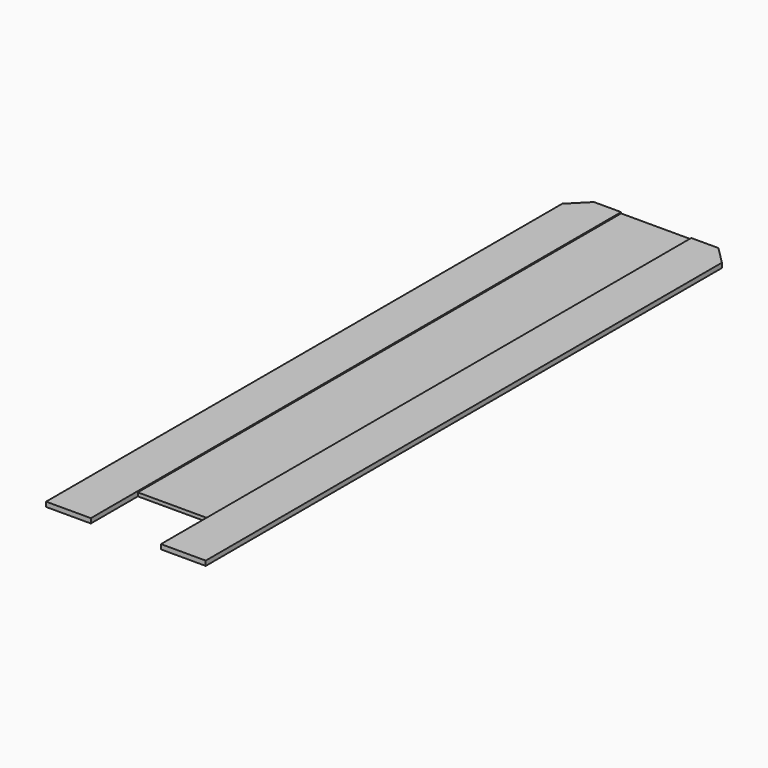
from build123d import *

# Parameters (mm, degrees)
F0_W     = 59.69
F0_H     = 3
F1_DEPTH = 514.2
F3_DEPTH = 564.2
F4_SIZE  = 15


with BuildPart() as f1:
    # F0 (on Front) → F1 (new body)
    with BuildSketch(Plane.XZ):
        with Locations((29.845, 1.5)):
            Rectangle(F0_W, F0_H)
    extrude(amount=F1_DEPTH)

    # F2 (on face) → F3 (join)
    with BuildSketch(Plane(origin=(0, 0, 0), x_dir=(-1, 0, 0), z_dir=(0, 1, 0))):
        Polygon((-97.79, 0), (-59.69, 0), (-59.69, 3), (-59.69, 4), (-97.79, 4), (-97.79, 1.197734), align=None)
        Polygon((0, 4), (0, 3), (0, 0), (38.1, 0), (38.1, 4), align=None)
    extrude(amount=-F3_DEPTH)

    # F4
    f4_edges = [f1.edges().sort_by_distance(p)[0] for p in [
        (97.79, 0, 2),
        (-38.1, 0, 2),
    ]]
    chamfer(f4_edges, length=F4_SIZE)


solid = f1.part
